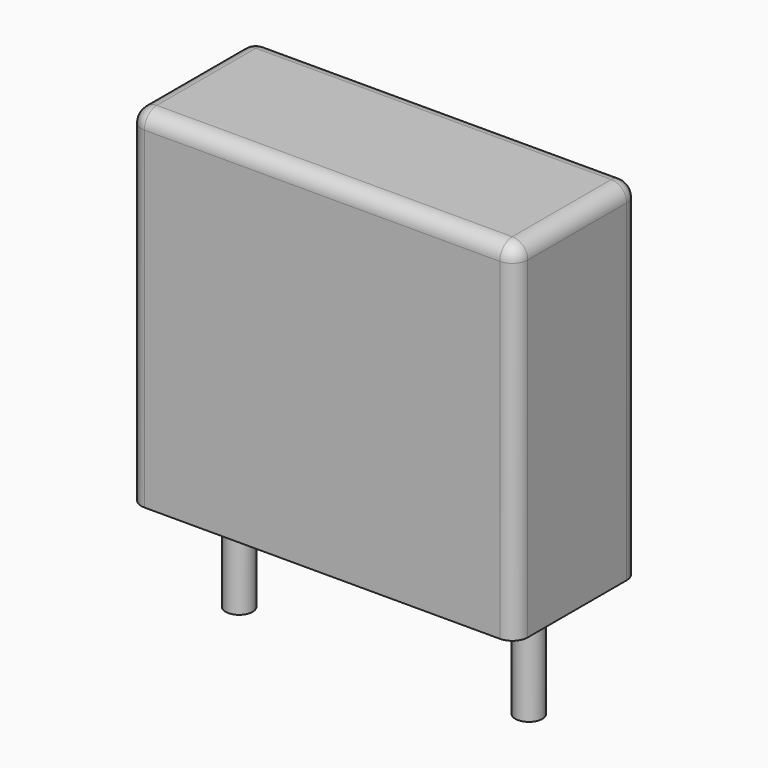
from build123d import *

# Parameters (mm, degrees)
SKETCH_W     = 10
SKETCH_H     = 4
PAD_DEPTH    = 9
FILLET_R     = 0.4
SKETCH001_R  = 0.35
PAD001_DEPTH = 3.2


with BuildPart() as fillet_body:
    # Sketch → Pad (new body)
    with BuildSketch(Plane.XY.offset(0.1)):
        with Locations((3.75, 0)):
            Rectangle(SKETCH_W, SKETCH_H)
    extrude(amount=PAD_DEPTH)

    # Fillet
    fillet_edges = [fillet_body.edges().sort_by_distance(p)[0] for p in [
        (-1.25, 0, 9.1),
        (-1.25, -2, 4.6),
        (3.75, -2, 9.1),
        (8.75, -2, 4.6),
        (8.75, 0, 9.1),
        (8.75, 2, 4.6),
        (3.75, 2, 9.1),
        (-1.25, 2, 4.6),
    ]]
    fillet(fillet_edges, radius=FILLET_R)


with BuildPart() as pad001:
    # Sketch001 → Pad001 (new body)
    with BuildSketch(Plane.XY.offset(0.5)):
        Circle(SKETCH001_R)
        with Locations((7.5, 0)):
            Circle(SKETCH001_R)
    extrude(amount=-PAD001_DEPTH)


solid = Compound([fillet_body.part, pad001.part])
